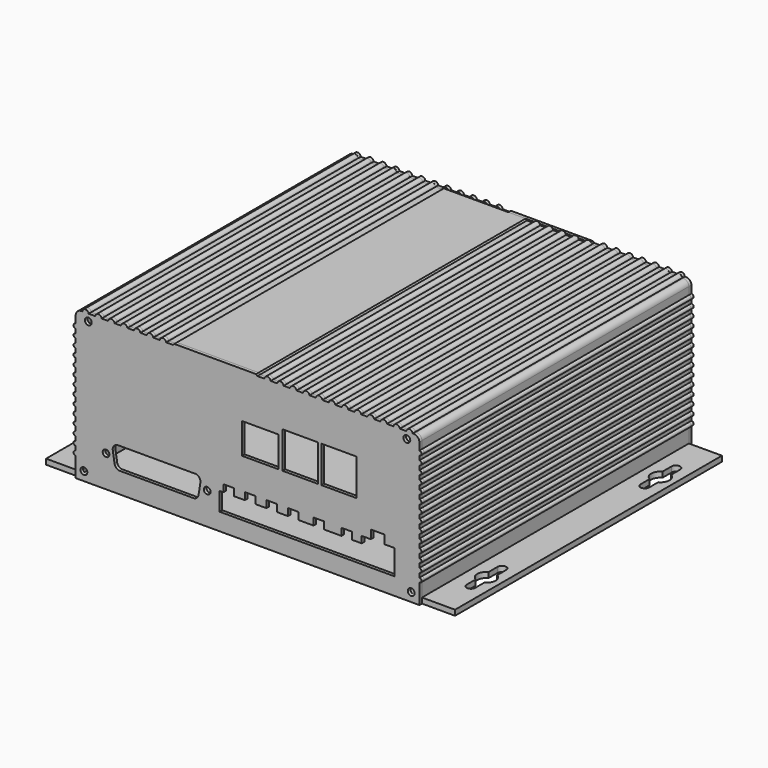
from build123d import *

# Parameters (mm, degrees)
FACE015_W                  = 154.7
FACE015_H                  = 64.8
EXTRUDE015_DEPTH           = 155.5
EXTRUDE002_DEPTH           = 3
EXTRUDE004_DEPTH           = 3
EXTRUDE003_DEPTH           = 3
EXTRUDE001_DEPTH           = 3
FACE_W                     = 155
FACE_H                     = 190
EXTRUDE_DEPTH              = 2.5
EXTRUDE005_DEPTH           = 155
EXTRUDE018_DEPTH           = 6.35
FACE020_W                  = 17
FACE020_H                  = 16.45
EXTRUDE019_DEPTH           = 6.35
FACE021_W                  = 17
FACE021_H                  = 16.45
EXTRUDE020_DEPTH           = 6.35
FACE022_W                  = 14.25
FACE022_H                  = 17.01
EXTRUDE021_DEPTH           = 6.35
EXTRUDE022_DEPTH           = 6.35
FACE027_R                  = 1.6
EXTRUDE023_DEPTH           = 6.35
FACE028_R                  = 1.6
EXTRUDE025_DEPTH           = 6.35
FACE026_R                  = 1.6
EXTRUDE026_DEPTH           = 6.35
FACE032_R                  = 1.6
EXTRUDE028_DEPTH           = 6.35
FACE031_R                  = 1.55
EXTRUDE029_DEPTH           = 6.35
FACE030_R                  = 1.55
EXTRUDE030_DEPTH           = 6.35
EXTRUDE016_DEPTH           = 1.5
CUT004_ROLL_ANGLE          = 90
WIRE009_W                  = 32.5
WIRE009_H                  = 80
EXTRUDE041_DEPTH           = 2
WIRE003_R                  = 1.6
EXTRUDE035_DEPTH           = 2
WIRE004_R                  = 1.6
EXTRUDE036_DEPTH           = 2
WIRE008_W                  = 19.4
WIRE008_H                  = 13
EXTRUDE040_DEPTH           = 2
WIRE001_R                  = 1.6
EXTRUDE033_DEPTH           = 2
WIRE002_R                  = 1.6
EXTRUDE034_DEPTH           = 2
WIRE007_R                  = 1.6
EXTRUDE039_DEPTH           = 2
WIRE005_R                  = 1.6
EXTRUDE037_DEPTH           = 2
WIRE006_R                  = 1.6
EXTRUDE038_DEPTH           = 2
WIRE_R                     = 1.6
EXTRUDE032_DEPTH           = 2
FUSION005_ROLL_ANGLE       = 90
FUSION005_PLACEMENT_ANGLE  = 180
EXTRUDE031_DEPTH           = 1.5
EXTRUDE031_ROLL_ANGLE      = 90
EXTRUDE031_PLACEMENT_ANGLE = 180


with BuildPart() as extrude015:
    # Face015 → Extrude015 (new body)
    with BuildSketch(Plane(origin=(94.8, 0, 34.9), x_dir=(-1, 0, 0), z_dir=(0, -1, 0))):
        Rectangle(FACE015_W, FACE015_H)
    extrude(amount=-EXTRUDE015_DEPTH)


with BuildPart() as extrude002:
    # Face002 → Extrude002 (new body)
    with BuildSketch(Plane(origin=(7, 128, 0), x_dir=(0, 1, 0), z_dir=(0, 0, 1))):
        with BuildLine():
            Line((-9, -2), (-3.75, -2))
            ThreePointArc((-3.75, -2), (-2.186607, -3.644345), (0, -4.25))
            ThreePointArc((0, -4.25), (2.186607, -3.644345), (3.75, -2))
            Line((3.75, -2), (9, -2))
            ThreePointArc((9, -2), (11, 0), (9, 2))
            Line((9, 2), (3.75, 2))
            ThreePointArc((3.75, 2), (0, 4.25), (-3.75, 2))
            Line((-3.75, 2), (-9, 2))
            ThreePointArc((-9, 2), (-11, 0), (-9, -2))
        make_face()
    extrude(amount=EXTRUDE002_DEPTH)


with BuildPart() as extrude004:
    # Face004 → Extrude004 (new body)
    with BuildSketch(Plane(origin=(183, 128, 0), x_dir=(0, 1, 0), z_dir=(0, 0, 1))):
        with BuildLine():
            Line((-9, -2), (-3.75, -2))
            ThreePointArc((-3.75, -2), (-2.186607, -3.644345), (0, -4.25))
            ThreePointArc((0, -4.25), (2.186607, -3.644345), (3.75, -2))
            Line((3.75, -2), (9, -2))
            ThreePointArc((9, -2), (11, 0), (9, 2))
            Line((9, 2), (3.75, 2))
            ThreePointArc((3.75, 2), (0, 4.25), (-3.75, 2))
            Line((-3.75, 2), (-9, 2))
            ThreePointArc((-9, 2), (-11, 0), (-9, -2))
        make_face()
    extrude(amount=EXTRUDE004_DEPTH)


with BuildPart() as extrude003:
    # Face003 → Extrude003 (new body)
    with BuildSketch(Plane(origin=(183, 27, 0), x_dir=(0, 1, 0), z_dir=(0, 0, 1))):
        with BuildLine():
            Line((-9, -2), (-3.75, -2))
            ThreePointArc((-3.75, -2), (-2.186607, -3.644345), (0, -4.25))
            ThreePointArc((0, -4.25), (2.186607, -3.644345), (3.75, -2))
            Line((3.75, -2), (9, -2))
            ThreePointArc((9, -2), (11, 0), (9, 2))
            Line((9, 2), (3.75, 2))
            ThreePointArc((3.75, 2), (0, 4.25), (-3.75, 2))
            Line((-3.75, 2), (-9, 2))
            ThreePointArc((-9, 2), (-11, 0), (-9, -2))
        make_face()
    extrude(amount=EXTRUDE003_DEPTH)


with BuildPart() as fusion:
    # Face001 → Extrude001 (new body)
    with BuildSketch(Plane(origin=(7, 27, 0), x_dir=(0, 1, 0), z_dir=(0, 0, 1))):
        with BuildLine():
            Line((-9, -2), (-3.75, -2))
            ThreePointArc((-3.75, -2), (-2.186607, -3.644345), (0, -4.25))
            ThreePointArc((0, -4.25), (2.186607, -3.644345), (3.75, -2))
            Line((3.75, -2), (9, -2))
            ThreePointArc((9, -2), (11, 0), (9, 2))
            Line((9, 2), (3.75, 2))
            ThreePointArc((3.75, 2), (0, 4.25), (-3.75, 2))
            Line((-3.75, 2), (-9, 2))
            ThreePointArc((-9, 2), (-11, 0), (-9, -2))
        make_face()
    extrude(amount=EXTRUDE001_DEPTH)

    # Fusion: union Extrude002, Extrude004, Extrude003
    add(extrude002.part)
    add(extrude004.part)
    add(extrude003.part)


with BuildPart() as cut:
    # Face → Extrude (new body)
    with BuildSketch(Plane(origin=(95, 77.5, 0), x_dir=(0, -1, 0), z_dir=(0, 0, -1))):
        Rectangle(FACE_W, FACE_H)
    extrude(amount=-EXTRUDE_DEPTH)

    # Cut: cut Fusion
    add(fusion.part, mode=Mode.SUBTRACT)


with BuildPart() as body:
    # Face005 → Extrude005 (new body)
    with BuildSketch(Plane(origin=(94.796781, 0, 34.844871), x_dir=(1, 0, 0), z_dir=(0, 1, 0))):
        with BuildLine():
            Line((79.853219, -31.855129), (79.853219, -28.351815))
            ThreePointArc((79.853219, -28.351815), (80.853219, -27.351815), (79.853219, -26.351815))
            Line((79.853219, -26.351815), (79.853219, -24.351815))
            ThreePointArc((79.853219, -24.351815), (80.853219, -23.351815), (79.853219, -22.351815))
            Line((79.853219, -22.351815), (79.853219, -20.351815))
            ThreePointArc((79.853219, -20.351815), (80.853219, -19.351815), (79.853219, -18.351815))
            Line((79.853219, -18.351815), (79.853219, -16.351815))
            ThreePointArc((79.853219, -16.351815), (80.853219, -15.351815), (79.853219, -14.351815))
            Line((79.853219, -14.351815), (79.853219, -12.351815))
            ThreePointArc((79.853219, -12.351815), (80.853219, -11.351815), (79.853219, -10.351815))
            Line((79.853219, -10.351815), (79.853219, -8.351815))
            ThreePointArc((79.853219, -8.351815), (80.853219, -7.351815), (79.853219, -6.351815))
            Line((79.853219, -6.351815), (79.853219, -4.351815))
            ThreePointArc((79.853219, -4.351815), (80.853219, -3.351815), (79.853219, -2.351815))
            Line((79.853219, -2.351815), (79.853219, -0.351815))
            ThreePointArc((79.853219, -0.351815), (80.853219, 0.648185), (79.853219, 1.648185))
            Line((79.853219, 1.648185), (79.853219, 3.648185))
            ThreePointArc((79.853219, 3.648185), (80.853219, 4.648185), (79.853219, 5.648185))
            Line((79.853219, 5.648185), (79.853219, 7.648185))
            ThreePointArc((79.853219, 7.648185), (80.853219, 8.648185), (79.853219, 9.648185))
            Line((79.853219, 9.648185), (79.853219, 11.648185))
            ThreePointArc((79.853219, 11.648185), (80.853219, 12.648185), (79.853219, 13.648185))
            Line((79.853219, 13.648185), (79.853219, 15.648185))
            ThreePointArc((79.853219, 15.648185), (80.853219, 16.648185), (79.853219, 17.648185))
            Line((79.853219, 17.648185), (79.853219, 19.648185))
            ThreePointArc((79.853219, 19.648185), (80.853219, 20.648185), (79.853219, 21.648185))
            Line((79.853219, 21.648185), (79.853219, 23.648185))
            ThreePointArc((79.853219, 23.648185), (80.853219, 24.648185), (79.853219, 25.648185))
            Line((79.853219, 25.648185), (79.853219, 34.844871))
            Line((79.853219, 34.844871), (-79.846781, 34.844871))
            Line((-79.846781, 34.844871), (-79.846781, 25.648185))
            ThreePointArc((-79.846781, 25.648185), (-80.846781, 24.648185), (-79.846781, 23.648185))
            Line((-79.846781, 23.648185), (-79.846781, 21.648185))
            ThreePointArc((-79.846781, 21.648185), (-80.846781, 20.648185), (-79.846781, 19.648185))
            Line((-79.846781, 19.648185), (-79.846781, 17.648185))
            ThreePointArc((-79.846781, 17.648185), (-80.846781, 16.648185), (-79.846781, 15.648185))
            Line((-79.846781, 15.648185), (-79.846781, 13.648185))
            ThreePointArc((-79.846781, 13.648185), (-80.846781, 12.648185), (-79.846781, 11.648185))
            Line((-79.846781, 11.648185), (-79.846781, 9.648185))
            ThreePointArc((-79.846781, 9.648185), (-80.846781, 8.648185), (-79.846781, 7.648185))
            Line((-79.846781, 7.648185), (-79.846781, 5.648185))
            ThreePointArc((-79.846781, 5.648185), (-80.846781, 4.648185), (-79.846781, 3.648185))
            Line((-79.846781, 3.648185), (-79.846781, 1.648185))
            ThreePointArc((-79.846781, 1.648185), (-80.846781, 0.648185), (-79.846781, -0.351815))
            Line((-79.846781, -0.351815), (-79.846781, -2.351815))
            ThreePointArc((-79.846781, -2.351815), (-80.846781, -3.351815), (-79.846781, -4.351815))
            Line((-79.846781, -4.351815), (-79.846781, -6.351815))
            ThreePointArc((-79.846781, -6.351815), (-80.846781, -7.351815), (-79.846781, -8.351815))
            Line((-79.846781, -8.351815), (-79.846781, -10.351815))
            ThreePointArc((-79.846781, -10.351815), (-80.846781, -11.351815), (-79.846781, -12.351815))
            Line((-79.846781, -12.351815), (-79.846781, -14.351815))
            ThreePointArc((-79.846781, -14.351815), (-80.846781, -15.351815), (-79.846781, -16.351815))
            Line((-79.846781, -16.351815), (-79.846781, -18.351815))
            ThreePointArc((-79.846781, -18.351815), (-80.846781, -19.351815), (-79.846781, -20.351815))
            Line((-79.846781, -20.351815), (-79.846781, -22.351815))
            ThreePointArc((-79.846781, -22.351815), (-80.846781, -23.351815), (-79.846781, -24.351815))
            Line((-79.846781, -24.351815), (-79.846781, -26.351815))
            ThreePointArc((-79.846781, -26.351815), (-80.846781, -27.351815), (-79.846781, -28.351815))
            Line((-79.846781, -28.351815), (-79.846781, -31.855129))
            ThreePointArc((-79.846781, -31.855129), (-79.030241, -33.607928), (-77.246781, -34.355129))
            Line((-77.246781, -34.355129), (-76.783388, -34.355129))
            ThreePointArc((-76.783388, -34.355129), (-75.296781, -35.655129), (-73.810174, -34.355129))
            Line((-73.810174, -34.355129), (-70.783388, -34.355129))
            ThreePointArc((-70.783388, -34.355129), (-69.296781, -35.655129), (-67.810174, -34.355129))
            Line((-67.810174, -34.355129), (-64.783388, -34.355129))
            ThreePointArc((-64.783388, -34.355129), (-63.296781, -35.655129), (-61.810174, -34.355129))
            Line((-61.810174, -34.355129), (-58.783388, -34.355129))
            ThreePointArc((-58.783388, -34.355129), (-57.296781, -35.655129), (-55.810174, -34.355129))
            Line((-55.810174, -34.355129), (-52.783388, -34.355129))
            ThreePointArc((-52.783388, -34.355129), (-51.296781, -35.655129), (-49.810174, -34.355129))
            Line((-49.810174, -34.355129), (-46.783388, -34.355129))
            ThreePointArc((-46.783388, -34.355129), (-45.296781, -35.655129), (-43.810174, -34.355129))
            Line((-43.810174, -34.355129), (-40.783388, -34.355129))
            ThreePointArc((-40.783388, -34.355129), (-39.296781, -35.655129), (-37.810174, -34.355129))
            Line((-37.810174, -34.355129), (-34.610174, -34.355129))
            Line((-34.610174, -34.355129), (-34.010174, -34.955129))
            Line((-34.010174, -34.955129), (3.989826, -34.955129))
            Line((3.989826, -34.955129), (4.589826, -34.355129))
            Line((4.589826, -34.355129), (7.789826, -34.355129))
            ThreePointArc((7.789826, -34.355129), (9.276433, -35.655129), (10.76304, -34.355129))
            Line((10.76304, -34.355129), (13.789826, -34.355129))
            ThreePointArc((13.789826, -34.355129), (15.276433, -35.655129), (16.76304, -34.355129))
            Line((16.76304, -34.355129), (19.789826, -34.355129))
            ThreePointArc((19.789826, -34.355129), (21.276433, -35.655129), (22.76304, -34.355129))
            Line((22.76304, -34.355129), (25.789826, -34.355129))
            ThreePointArc((25.789826, -34.355129), (27.276433, -35.655129), (28.76304, -34.355129))
            Line((28.76304, -34.355129), (31.789826, -34.355129))
            ThreePointArc((31.789826, -34.355129), (33.276433, -35.655129), (34.76304, -34.355129))
            Line((34.76304, -34.355129), (37.789826, -34.355129))
            ThreePointArc((37.789826, -34.355129), (39.276433, -35.655129), (40.76304, -34.355129))
            Line((40.76304, -34.355129), (43.789826, -34.355129))
            ThreePointArc((43.789826, -34.355129), (45.276433, -35.655129), (46.76304, -34.355129))
            Line((46.76304, -34.355129), (49.789826, -34.355129))
            ThreePointArc((49.789826, -34.355129), (51.276433, -35.655129), (52.76304, -34.355129))
            Line((52.76304, -34.355129), (55.789826, -34.355129))
            ThreePointArc((55.789826, -34.355129), (57.276433, -35.655129), (58.76304, -34.355129))
            Line((58.76304, -34.355129), (61.789826, -34.355129))
            ThreePointArc((61.789826, -34.355129), (63.276433, -35.655129), (64.76304, -34.355129))
            Line((64.76304, -34.355129), (67.789826, -34.355129))
            ThreePointArc((67.789826, -34.355129), (69.276433, -35.655129), (70.76304, -34.355129))
            Line((70.76304, -34.355129), (73.789826, -34.355129))
            ThreePointArc((73.789826, -34.355129), (75.276433, -35.655129), (76.76304, -34.355129))
            Line((76.76304, -34.355129), (77.253219, -34.355129))
            ThreePointArc((77.253219, -34.355129), (79.03668, -33.607928), (79.853219, -31.855129))
        make_face()
    extrude(amount=EXTRUDE005_DEPTH)

    # Fusion001: union Cut
    add(cut.part)

    # Cut003: cut Extrude015
    add(extrude015.part, mode=Mode.SUBTRACT)


with BuildPart() as extrude018:
    # Face019 → Extrude018 (new body)
    with BuildSketch(Plane(origin=(37.3896, 14.799301, 0), x_dir=(0, -1, 0), z_dir=(0, 0, -1))):
        with BuildLine():
            add(Edge.make_bspline(
                [(3.086614, 19.513819), (5.159401, 19.186537), (5.159401, 17.088071)],
                knots=[3.298195, 3.298195, 3.298195, 4.712389, 4.712389, 4.712389], degree=2, weights=[1, 0.760251, 1]))
            add(Edge.make_bspline(
                [(-2.221986, 20.352019), (3.086614, 19.513819)],
                knots=[0, 0, 5.374366, 5.374366], degree=1))
            add(Edge.make_bspline(
                [(-2.604999, 20.382071), (-2.412313, 20.382071), (-2.221986, 20.352019)],
                knots=[3.141593, 3.141593, 3.141593, 3.298195, 3.298195, 3.298195], degree=2, weights=[1, 0.996936, 1]))
            add(Edge.make_bspline(
                [(-5.060799, 17.926271), (-5.060799, 20.382071), (-2.604999, 20.382071)],
                knots=[1.570796, 1.570796, 1.570796, 3.141593, 3.141593, 3.141593], degree=2, weights=[1, 0.707107, 1]))
            add(Edge.make_bspline(
                [(-5.060799, -17.926271), (-5.060799, 17.926271)],
                knots=[0, 0, 35.852542, 35.852542], degree=1))
            add(Edge.make_bspline(
                [(-2.221986, -20.352019), (-5.060799, -20.800253), (-5.060799, -17.926271)],
                knots=[6.126583, 6.126583, 6.126583, 7.853982, 7.853982, 7.853982], degree=2, weights=[1, 0.64963, 1]))
            add(Edge.make_bspline(
                [(3.086614, -19.513819), (-2.221986, -20.352019)],
                knots=[0, 0, 5.374366, 5.374366], degree=1))
            add(Edge.make_bspline(
                [(5.159401, -17.088071), (5.159401, -19.186537), (3.086614, -19.513819)],
                knots=[4.712389, 4.712389, 4.712389, 6.126583, 6.126583, 6.126583], degree=2, weights=[1, 0.760251, 1]))
            add(Edge.make_bspline(
                [(5.159401, 17.088071), (5.159401, -17.088071)],
                knots=[0, 0, 34.176142, 34.176142], degree=1))
        make_face()
    extrude(amount=-EXTRUDE018_DEPTH)


with BuildPart() as extrude019:
    # Face020 → Extrude019 (new body)
    with BuildSketch(Plane(origin=(122.15, 42.75, 0), x_dir=(0, 1, 0), z_dir=(0, 0, 1))):
        Rectangle(FACE020_W, FACE020_H)
    extrude(amount=EXTRUDE019_DEPTH)


with BuildPart() as extrude020:
    # Face021 → Extrude020 (new body)
    with BuildSketch(Plane(origin=(104.15, 42.75, 0), x_dir=(0, 1, 0), z_dir=(0, 0, 1))):
        Rectangle(FACE021_W, FACE021_H)
    extrude(amount=EXTRUDE020_DEPTH)


with BuildPart() as extrude021:
    # Face022 → Extrude021 (new body)
    with BuildSketch(Plane(origin=(85.525, 41.375, 0), x_dir=(0, -1, 0), z_dir=(0, 0, -1))):
        Rectangle(FACE022_W, FACE022_H)
    extrude(amount=-EXTRUDE021_DEPTH)


with BuildPart() as extrude022:
    # Face023 → Extrude022 (new body)
    with BuildSketch(Plane(origin=(108.94447, 13.522136, 0), x_dir=(0, -1, 0), z_dir=(0, 0, -1))):
        Polygon((-6.327864, -19.23553), (-3.007864, -19.23553), (-3.007864, -23.75553), (-6.077864, -23.75553), (-6.077864, -27.95553), (-10.077864, -27.95553), (-10.077864, -34.35553), (-6.077864, -34.35553), (-6.077864, -39.05553), (5.522136, -39.05553), (5.522136, 42.26947), (-3.007864, 42.26947), (-3.007864, 40.52447), (-6.327864, 40.52447), (-6.327864, 35.66447), (-3.007864, 35.66447), (-3.007864, 30.52447), (-6.327864, 30.52447), (-6.327864, 25.66447), (-3.007864, 25.66447), (-3.007864, 20.52447), (-6.327864, 20.52447), (-6.327864, 15.66447), (-3.007864, 15.66447), (-3.007864, 10.52447), (-6.327864, 10.52447), (-6.327864, 5.66447), (-3.007864, 5.66447), (-3.007864, -1.37553), (-6.327864, -1.37553), (-6.327864, -6.23553), (-3.007864, -6.23553), (-3.007864, -14.37553), (-6.327864, -14.37553), align=None)
    extrude(amount=-EXTRUDE022_DEPTH)


with BuildPart() as extrude023:
    # Face027 → Extrude023 (new body)
    with BuildSketch(Plane(origin=(3.6, 4.1, 0), x_dir=(0, -1, 0), z_dir=(0, 0, -1))):
        Circle(FACE027_R)
    extrude(amount=-EXTRUDE023_DEPTH)


with BuildPart() as extrude025:
    # Face028 → Extrude025 (new body)
    with BuildSketch(Plane(origin=(155.7, 4.1, 0), x_dir=(0, -1, 0), z_dir=(0, 0, -1))):
        Circle(FACE028_R)
    extrude(amount=-EXTRUDE025_DEPTH)


with BuildPart() as extrude026:
    # Face026 → Extrude026 (new body)
    with BuildSketch(Plane(origin=(153.65, 66, 0), x_dir=(0, -1, 0), z_dir=(0, 0, -1))):
        Circle(FACE026_R)
    extrude(amount=-EXTRUDE026_DEPTH)


with BuildPart() as extrude028:
    # Face032 → Extrude028 (new body)
    with BuildSketch(Plane(origin=(5.65, 66, 0), x_dir=(0, -1, 0), z_dir=(0, 0, -1))):
        Circle(FACE032_R)
    extrude(amount=-EXTRUDE028_DEPTH)


with BuildPart() as extrude029:
    # Face031 → Extrude029 (new body)
    with BuildSketch(Plane(origin=(13.91, 14.75, 0), x_dir=(0, -1, 0), z_dir=(0, 0, -1))):
        Circle(FACE031_R)
    extrude(amount=-EXTRUDE029_DEPTH)


with BuildPart() as fusion004:
    # Face030 → Extrude030 (new body)
    with BuildSketch(Plane(origin=(60.91, 14.75, 0), x_dir=(0, -1, 0), z_dir=(0, 0, -1))):
        Circle(FACE030_R)
    extrude(amount=-EXTRUDE030_DEPTH)

    # Fusion004: union Extrude018, Extrude019, Extrude020, Extrude021, Extrude022, Extrude023, Extrude025, Extrude026, Extrude028, Extrude029
    add(extrude018.part)
    add(extrude019.part)
    add(extrude020.part)
    add(extrude021.part)
    add(extrude022.part)
    add(extrude023.part)
    add(extrude025.part)
    add(extrude026.part)
    add(extrude028.part)
    add(extrude029.part)


with BuildPart() as back:
    # Face016 → Extrude016 (new body)
    with BuildSketch(Plane(origin=(79.646781, 34.844871, 0), x_dir=(0, -1, 0), z_dir=(0, 0, -1))):
        with BuildLine():
            Line((-31.855129, -79.853219), (-28.351815, -79.853219))
            ThreePointArc((-28.351815, -79.853219), (-27.351815, -80.853219), (-26.351815, -79.853219))
            Line((-26.351815, -79.853219), (-24.351815, -79.853219))
            ThreePointArc((-24.351815, -79.853219), (-23.351815, -80.853219), (-22.351815, -79.853219))
            Line((-22.351815, -79.853219), (-20.351815, -79.853219))
            ThreePointArc((-20.351815, -79.853219), (-19.351815, -80.853219), (-18.351815, -79.853219))
            Line((-18.351815, -79.853219), (-16.351815, -79.853219))
            ThreePointArc((-16.351815, -79.853219), (-15.351815, -80.853219), (-14.351815, -79.853219))
            Line((-14.351815, -79.853219), (-12.351815, -79.853219))
            ThreePointArc((-12.351815, -79.853219), (-11.351815, -80.853219), (-10.351815, -79.853219))
            Line((-10.351815, -79.853219), (-8.351815, -79.853219))
            ThreePointArc((-8.351815, -79.853219), (-7.351815, -80.853219), (-6.351815, -79.853219))
            Line((-6.351815, -79.853219), (-4.351815, -79.853219))
            ThreePointArc((-4.351815, -79.853219), (-3.351815, -80.853219), (-2.351815, -79.853219))
            Line((-2.351815, -79.853219), (-0.351815, -79.853219))
            ThreePointArc((-0.351815, -79.853219), (0.648185, -80.853219), (1.648185, -79.853219))
            Line((1.648185, -79.853219), (3.648185, -79.853219))
            ThreePointArc((3.648185, -79.853219), (4.648185, -80.853219), (5.648185, -79.853219))
            Line((5.648185, -79.853219), (7.648185, -79.853219))
            ThreePointArc((7.648185, -79.853219), (8.648185, -80.853219), (9.648185, -79.853219))
            Line((9.648185, -79.853219), (11.648185, -79.853219))
            ThreePointArc((11.648185, -79.853219), (12.648185, -80.853219), (13.648185, -79.853219))
            Line((13.648185, -79.853219), (15.648185, -79.853219))
            ThreePointArc((15.648185, -79.853219), (16.648185, -80.853219), (17.648185, -79.853219))
            Line((17.648185, -79.853219), (19.648185, -79.853219))
            ThreePointArc((19.648185, -79.853219), (20.648185, -80.853219), (21.648185, -79.853219))
            Line((21.648185, -79.853219), (23.648185, -79.853219))
            ThreePointArc((23.648185, -79.853219), (24.648185, -80.853219), (25.648185, -79.853219))
            Line((25.648185, -79.853219), (34.844871, -79.853219))
            Line((34.844871, -79.853219), (34.844871, 79.846781))
            Line((34.844871, 79.846781), (25.648185, 79.846781))
            ThreePointArc((25.648185, 79.846781), (24.648185, 80.846781), (23.648185, 79.846781))
            Line((23.648185, 79.846781), (21.648185, 79.846781))
            ThreePointArc((21.648185, 79.846781), (20.648185, 80.846781), (19.648185, 79.846781))
            Line((19.648185, 79.846781), (17.648185, 79.846781))
            ThreePointArc((17.648185, 79.846781), (16.648185, 80.846781), (15.648185, 79.846781))
            Line((15.648185, 79.846781), (13.648185, 79.846781))
            ThreePointArc((13.648185, 79.846781), (12.648185, 80.846781), (11.648185, 79.846781))
            Line((11.648185, 79.846781), (9.648185, 79.846781))
            ThreePointArc((9.648185, 79.846781), (8.648185, 80.846781), (7.648185, 79.846781))
            Line((7.648185, 79.846781), (5.648185, 79.846781))
            ThreePointArc((5.648185, 79.846781), (4.648185, 80.846781), (3.648185, 79.846781))
            Line((3.648185, 79.846781), (1.648185, 79.846781))
            ThreePointArc((1.648185, 79.846781), (0.648185, 80.846781), (-0.351815, 79.846781))
            Line((-0.351815, 79.846781), (-2.351815, 79.846781))
            ThreePointArc((-2.351815, 79.846781), (-3.351815, 80.846781), (-4.351815, 79.846781))
            Line((-4.351815, 79.846781), (-6.351815, 79.846781))
            ThreePointArc((-6.351815, 79.846781), (-7.351815, 80.846781), (-8.351815, 79.846781))
            Line((-8.351815, 79.846781), (-10.351815, 79.846781))
            ThreePointArc((-10.351815, 79.846781), (-11.351815, 80.846781), (-12.351815, 79.846781))
            Line((-12.351815, 79.846781), (-14.351815, 79.846781))
            ThreePointArc((-14.351815, 79.846781), (-15.351815, 80.846781), (-16.351815, 79.846781))
            Line((-16.351815, 79.846781), (-18.351815, 79.846781))
            ThreePointArc((-18.351815, 79.846781), (-19.351815, 80.846781), (-20.351815, 79.846781))
            Line((-20.351815, 79.846781), (-22.351815, 79.846781))
            ThreePointArc((-22.351815, 79.846781), (-23.351815, 80.846781), (-24.351815, 79.846781))
            Line((-24.351815, 79.846781), (-26.351815, 79.846781))
            ThreePointArc((-26.351815, 79.846781), (-27.351815, 80.846781), (-28.351815, 79.846781))
            Line((-28.351815, 79.846781), (-31.855129, 79.846781))
            ThreePointArc((-31.855129, 79.846781), (-33.607928, 79.030241), (-34.355129, 77.246781))
            Line((-34.355129, 77.246781), (-34.355129, 76.783388))
            ThreePointArc((-34.355129, 76.783388), (-35.655129, 75.296781), (-34.355129, 73.810174))
            Line((-34.355129, 73.810174), (-34.355129, 70.783388))
            ThreePointArc((-34.355129, 70.783388), (-35.655129, 69.296781), (-34.355129, 67.810174))
            Line((-34.355129, 67.810174), (-34.355129, 64.783388))
            ThreePointArc((-34.355129, 64.783388), (-35.655129, 63.296781), (-34.355129, 61.810174))
            Line((-34.355129, 61.810174), (-34.355129, 58.783388))
            ThreePointArc((-34.355129, 58.783388), (-35.655129, 57.296781), (-34.355129, 55.810174))
            Line((-34.355129, 55.810174), (-34.355129, 52.783388))
            ThreePointArc((-34.355129, 52.783388), (-35.655129, 51.296781), (-34.355129, 49.810174))
            Line((-34.355129, 49.810174), (-34.355129, 46.783388))
            ThreePointArc((-34.355129, 46.783388), (-35.655129, 45.296781), (-34.355129, 43.810174))
            Line((-34.355129, 43.810174), (-34.355129, 40.783388))
            ThreePointArc((-34.355129, 40.783388), (-35.655129, 39.296781), (-34.355129, 37.810174))
            Line((-34.355129, 37.810174), (-34.355129, 34.610174))
            Line((-34.355129, 34.610174), (-34.955129, 34.010174))
            Line((-34.955129, 34.010174), (-34.955129, -3.989826))
            Line((-34.955129, -3.989826), (-34.355129, -4.589826))
            Line((-34.355129, -4.589826), (-34.355129, -7.789826))
            ThreePointArc((-34.355129, -7.789826), (-35.655129, -9.276433), (-34.355129, -10.76304))
            Line((-34.355129, -10.76304), (-34.355129, -13.789826))
            ThreePointArc((-34.355129, -13.789826), (-35.655129, -15.276433), (-34.355129, -16.76304))
            Line((-34.355129, -16.76304), (-34.355129, -19.789826))
            ThreePointArc((-34.355129, -19.789826), (-35.655129, -21.276433), (-34.355129, -22.76304))
            Line((-34.355129, -22.76304), (-34.355129, -25.789826))
            ThreePointArc((-34.355129, -25.789826), (-35.655129, -27.276433), (-34.355129, -28.76304))
            Line((-34.355129, -28.76304), (-34.355129, -31.789826))
            ThreePointArc((-34.355129, -31.789826), (-35.655129, -33.276433), (-34.355129, -34.76304))
            Line((-34.355129, -34.76304), (-34.355129, -37.789826))
            ThreePointArc((-34.355129, -37.789826), (-35.655129, -39.276433), (-34.355129, -40.76304))
            Line((-34.355129, -40.76304), (-34.355129, -43.789826))
            ThreePointArc((-34.355129, -43.789826), (-35.655129, -45.276433), (-34.355129, -46.76304))
            Line((-34.355129, -46.76304), (-34.355129, -49.789826))
            ThreePointArc((-34.355129, -49.789826), (-35.655129, -51.276433), (-34.355129, -52.76304))
            Line((-34.355129, -52.76304), (-34.355129, -55.789826))
            ThreePointArc((-34.355129, -55.789826), (-35.655129, -57.276433), (-34.355129, -58.76304))
            Line((-34.355129, -58.76304), (-34.355129, -61.789826))
            ThreePointArc((-34.355129, -61.789826), (-35.655129, -63.276433), (-34.355129, -64.76304))
            Line((-34.355129, -64.76304), (-34.355129, -67.789826))
            ThreePointArc((-34.355129, -67.789826), (-35.655129, -69.276433), (-34.355129, -70.76304))
            Line((-34.355129, -70.76304), (-34.355129, -73.789826))
            ThreePointArc((-34.355129, -73.789826), (-35.655129, -75.276433), (-34.355129, -76.76304))
            Line((-34.355129, -76.76304), (-34.355129, -77.253219))
            ThreePointArc((-34.355129, -77.253219), (-33.607928, -79.03668), (-31.855129, -79.853219))
        make_face()
    extrude(amount=-EXTRUDE016_DEPTH)

    # Cut004: cut Fusion004
    add(fusion004.part, mode=Mode.SUBTRACT)


with BuildPart() as back_1:
    # Cut004 roll: moved
    add(back.part.rotate(Axis((0, 0, 0), (1, 0, 0)), CUT004_ROLL_ANGLE))


with BuildPart() as back_2:
    # Cut004 placement: moved
    add(back_1.part.moved(Location((15.15, 0, 0))))


with BuildPart() as extrude041:
    # Wire009 → Extrude041 (new body)
    with BuildSketch(Plane(origin=(98.5, 32.25, 0), x_dir=(0, -1, 0), z_dir=(0, 0, -1))):
        Rectangle(WIRE009_W, WIRE009_H)
    extrude(amount=-EXTRUDE041_DEPTH)


with BuildPart() as extrude035:
    # Wire003 → Extrude035 (new body)
    with BuildSketch(Plane(origin=(155.7, 4.1, 0), x_dir=(0, -1, 0), z_dir=(0, 0, -1))):
        Circle(WIRE003_R)
    extrude(amount=-EXTRUDE035_DEPTH)


with BuildPart() as extrude036:
    # Wire004 → Extrude036 (new body)
    with BuildSketch(Plane(origin=(145, 60, 0), x_dir=(0, -1, 0), z_dir=(0, 0, -1))):
        Circle(WIRE004_R)
    extrude(amount=-EXTRUDE036_DEPTH)


with BuildPart() as extrude040:
    # Wire008 → Extrude040 (new body)
    with BuildSketch(Plane(origin=(16.5, 32.25, 0), x_dir=(0, -1, 0), z_dir=(0, 0, -1))):
        Rectangle(WIRE008_W, WIRE008_H)
    extrude(amount=-EXTRUDE040_DEPTH)


with BuildPart() as extrude033:
    # Wire001 → Extrude033 (new body)
    with BuildSketch(Plane(origin=(5.645922, 65.965261, 0), x_dir=(0, -1, 0), z_dir=(0, 0, -1))):
        Circle(WIRE001_R)
    extrude(amount=-EXTRUDE033_DEPTH)


with BuildPart() as extrude034:
    # Wire002 → Extrude034 (new body)
    with BuildSketch(Plane(origin=(153.65, 66, 0), x_dir=(0, -1, 0), z_dir=(0, 0, -1))):
        Circle(WIRE002_R)
    extrude(amount=-EXTRUDE034_DEPTH)


with BuildPart() as extrude039:
    # Wire007 → Extrude039 (new body)
    with BuildSketch(Plane(origin=(52, 60, 0), x_dir=(0, -1, 0), z_dir=(0, 0, -1))):
        Circle(WIRE007_R)
    extrude(amount=-EXTRUDE039_DEPTH)


with BuildPart() as extrude037:
    # Wire005 → Extrude037 (new body)
    with BuildSketch(Plane(origin=(145, 5, 0), x_dir=(0, -1, 0), z_dir=(0, 0, -1))):
        Circle(WIRE005_R)
    extrude(amount=-EXTRUDE037_DEPTH)


with BuildPart() as extrude038:
    # Wire006 → Extrude038 (new body)
    with BuildSketch(Plane(origin=(52, 5, 0), x_dir=(0, -1, 0), z_dir=(0, 0, -1))):
        Circle(WIRE006_R)
    extrude(amount=-EXTRUDE038_DEPTH)


with BuildPart() as fusion005:
    # Wire → Extrude032 (new body)
    with BuildSketch(Plane(origin=(3.6, 4.1, 0), x_dir=(0, -1, 0), z_dir=(0, 0, -1))):
        Circle(WIRE_R)
    extrude(amount=-EXTRUDE032_DEPTH)

    # Fusion005: union Extrude041, Extrude035, Extrude036, Extrude040, Extrude033, Extrude034, Extrude039, Extrude037, Extrude038
    add(extrude041.part)
    add(extrude035.part)
    add(extrude036.part)
    add(extrude040.part)
    add(extrude033.part)
    add(extrude034.part)
    add(extrude039.part)
    add(extrude037.part)
    add(extrude038.part)


with BuildPart() as fusion005_1:
    # Fusion005 roll: moved
    add(fusion005.part.rotate(Axis((0, 0, 0), (1, 0, 0)), FUSION005_ROLL_ANGLE))


with BuildPart() as fusion005_2:
    # Fusion005 placement: moved
    add(fusion005_1.part.rotate(Axis((0, 0, 0), (0, 0, 1)), FUSION005_PLACEMENT_ANGLE))


with BuildPart() as front:
    # Wire010 → Extrude031 (new body)
    with BuildSketch(Plane(origin=(79.65, 35.25, 0), x_dir=(0, -1, 0), z_dir=(0, 0, -1))):
        with BuildLine():
            Line((-31.45, -79.85), (-27.946685, -79.85))
            ThreePointArc((-27.946685, -79.85), (-26.946685, -80.85), (-25.946685, -79.85))
            Line((-25.946685, -79.85), (-23.946685, -79.85))
            ThreePointArc((-23.946685, -79.85), (-22.946685, -80.85), (-21.946685, -79.85))
            Line((-21.946685, -79.85), (-19.946685, -79.85))
            ThreePointArc((-19.946685, -79.85), (-18.946685, -80.85), (-17.946685, -79.85))
            Line((-17.946685, -79.85), (-15.946685, -79.85))
            ThreePointArc((-15.946685, -79.85), (-14.946685, -80.85), (-13.946685, -79.85))
            Line((-13.946685, -79.85), (-11.946685, -79.85))
            ThreePointArc((-11.946685, -79.85), (-10.946685, -80.85), (-9.946685, -79.85))
            Line((-9.946685, -79.85), (-7.946685, -79.85))
            ThreePointArc((-7.946685, -79.85), (-6.946685, -80.85), (-5.946685, -79.85))
            Line((-5.946685, -79.85), (-3.946685, -79.85))
            ThreePointArc((-3.946685, -79.85), (-2.946685, -80.85), (-1.946685, -79.85))
            Line((-1.946685, -79.85), (0.053315, -79.85))
            ThreePointArc((0.053315, -79.85), (1.053315, -80.85), (2.053315, -79.85))
            Line((2.053315, -79.85), (4.053315, -79.85))
            ThreePointArc((4.053315, -79.85), (5.053315, -80.85), (6.053315, -79.85))
            Line((6.053315, -79.85), (8.053315, -79.85))
            ThreePointArc((8.053315, -79.85), (9.053315, -80.85), (10.053315, -79.85))
            Line((10.053315, -79.85), (12.053315, -79.85))
            ThreePointArc((12.053315, -79.85), (13.053315, -80.85), (14.053315, -79.85))
            Line((14.053315, -79.85), (16.053315, -79.85))
            ThreePointArc((16.053315, -79.85), (17.053315, -80.85), (18.053315, -79.85))
            Line((18.053315, -79.85), (20.053315, -79.85))
            ThreePointArc((20.053315, -79.85), (21.053315, -80.85), (22.053315, -79.85))
            Line((22.053315, -79.85), (24.053315, -79.85))
            ThreePointArc((24.053315, -79.85), (25.053315, -80.85), (26.053315, -79.85))
            Line((26.053315, -79.85), (35.25, -79.85))
            Line((35.25, -79.85), (35.25, 79.85))
            Line((35.25, 79.85), (26.053315, 79.85))
            ThreePointArc((26.053315, 79.85), (25.053315, 80.85), (24.053315, 79.85))
            Line((24.053315, 79.85), (22.053315, 79.85))
            ThreePointArc((22.053315, 79.85), (21.053315, 80.85), (20.053315, 79.85))
            Line((20.053315, 79.85), (18.053315, 79.85))
            ThreePointArc((18.053315, 79.85), (17.053315, 80.85), (16.053315, 79.85))
            Line((16.053315, 79.85), (14.053315, 79.85))
            ThreePointArc((14.053315, 79.85), (13.053315, 80.85), (12.053315, 79.85))
            Line((12.053315, 79.85), (10.053315, 79.85))
            ThreePointArc((10.053315, 79.85), (9.053315, 80.85), (8.053315, 79.85))
            Line((8.053315, 79.85), (6.053315, 79.85))
            ThreePointArc((6.053315, 79.85), (5.053315, 80.85), (4.053315, 79.85))
            Line((4.053315, 79.85), (2.053315, 79.85))
            ThreePointArc((2.053315, 79.85), (1.053315, 80.85), (0.053315, 79.85))
            Line((0.053315, 79.85), (-1.946685, 79.85))
            ThreePointArc((-1.946685, 79.85), (-2.946685, 80.85), (-3.946685, 79.85))
            Line((-3.946685, 79.85), (-5.946685, 79.85))
            ThreePointArc((-5.946685, 79.85), (-6.946685, 80.85), (-7.946685, 79.85))
            Line((-7.946685, 79.85), (-9.946685, 79.85))
            ThreePointArc((-9.946685, 79.85), (-10.946685, 80.85), (-11.946685, 79.85))
            Line((-11.946685, 79.85), (-13.946685, 79.85))
            ThreePointArc((-13.946685, 79.85), (-14.946685, 80.85), (-15.946685, 79.85))
            Line((-15.946685, 79.85), (-17.946685, 79.85))
            ThreePointArc((-17.946685, 79.85), (-18.946685, 80.85), (-19.946685, 79.85))
            Line((-19.946685, 79.85), (-21.946685, 79.85))
            ThreePointArc((-21.946685, 79.85), (-22.946685, 80.85), (-23.946685, 79.85))
            Line((-23.946685, 79.85), (-25.946685, 79.85))
            ThreePointArc((-25.946685, 79.85), (-26.946685, 80.85), (-27.946685, 79.85))
            Line((-27.946685, 79.85), (-31.45, 79.85))
            ThreePointArc((-31.45, 79.85), (-33.202799, 79.03346), (-33.95, 77.25))
            Line((-33.95, 77.25), (-33.95, 76.786607))
            ThreePointArc((-33.95, 76.786607), (-35.25, 75.3), (-33.95, 73.813393))
            Line((-33.95, 73.813393), (-33.95, 70.786607))
            ThreePointArc((-33.95, 70.786607), (-35.25, 69.3), (-33.95, 67.813393))
            Line((-33.95, 67.813393), (-33.95, 64.786607))
            ThreePointArc((-33.95, 64.786607), (-35.25, 63.3), (-33.95, 61.813393))
            Line((-33.95, 61.813393), (-33.95, 58.786607))
            ThreePointArc((-33.95, 58.786607), (-35.25, 57.3), (-33.95, 55.813393))
            Line((-33.95, 55.813393), (-33.95, 52.786607))
            ThreePointArc((-33.95, 52.786607), (-35.25, 51.3), (-33.95, 49.813393))
            Line((-33.95, 49.813393), (-33.95, 46.786607))
            ThreePointArc((-33.95, 46.786607), (-35.25, 45.3), (-33.95, 43.813393))
            Line((-33.95, 43.813393), (-33.95, 40.786607))
            ThreePointArc((-33.95, 40.786607), (-35.25, 39.3), (-33.95, 37.813393))
            Line((-33.95, 37.813393), (-33.95, 34.613393))
            Line((-33.95, 34.613393), (-34.55, 34.013393))
            Line((-34.55, 34.013393), (-34.55, -3.986607))
            Line((-34.55, -3.986607), (-33.95, -4.586607))
            Line((-33.95, -4.586607), (-33.95, -7.786607))
            ThreePointArc((-33.95, -7.786607), (-35.25, -9.273214), (-33.95, -10.759821))
            Line((-33.95, -10.759821), (-33.95, -13.786607))
            ThreePointArc((-33.95, -13.786607), (-35.25, -15.273214), (-33.95, -16.759821))
            Line((-33.95, -16.759821), (-33.95, -19.786607))
            ThreePointArc((-33.95, -19.786607), (-35.25, -21.273214), (-33.95, -22.759821))
            Line((-33.95, -22.759821), (-33.95, -25.786607))
            ThreePointArc((-33.95, -25.786607), (-35.25, -27.273214), (-33.95, -28.759821))
            Line((-33.95, -28.759821), (-33.95, -31.786607))
            ThreePointArc((-33.95, -31.786607), (-35.25, -33.273214), (-33.95, -34.759821))
            Line((-33.95, -34.759821), (-33.95, -37.786607))
            ThreePointArc((-33.95, -37.786607), (-35.25, -39.273214), (-33.95, -40.759821))
            Line((-33.95, -40.759821), (-33.95, -43.786607))
            ThreePointArc((-33.95, -43.786607), (-35.25, -45.273214), (-33.95, -46.759821))
            Line((-33.95, -46.759821), (-33.95, -49.786607))
            ThreePointArc((-33.95, -49.786607), (-35.25, -51.273214), (-33.95, -52.759821))
            Line((-33.95, -52.759821), (-33.95, -55.786607))
            ThreePointArc((-33.95, -55.786607), (-35.25, -57.273214), (-33.95, -58.759821))
            Line((-33.95, -58.759821), (-33.95, -61.786607))
            ThreePointArc((-33.95, -61.786607), (-35.25, -63.273214), (-33.95, -64.759821))
            Line((-33.95, -64.759821), (-33.95, -67.786607))
            ThreePointArc((-33.95, -67.786607), (-35.25, -69.273214), (-33.95, -70.759821))
            Line((-33.95, -70.759821), (-33.95, -73.786607))
            ThreePointArc((-33.95, -73.786607), (-35.25, -75.273214), (-33.95, -76.759821))
            Line((-33.95, -76.759821), (-33.95, -77.25))
            ThreePointArc((-33.95, -77.25), (-33.202799, -79.03346), (-31.45, -79.85))
        make_face()
    extrude(amount=-EXTRUDE031_DEPTH)


with BuildPart() as front_1:
    # Extrude031 roll: moved
    add(front.part.rotate(Axis((0, 0, 0), (1, 0, 0)), EXTRUDE031_ROLL_ANGLE))


with BuildPart() as front_2:
    # Extrude031 placement: moved
    add(front_1.part.rotate(Axis((0, 0, 0), (0, 0, 1)), EXTRUDE031_PLACEMENT_ANGLE))

    # Cut005: cut Fusion005
    add(fusion005_2.part, mode=Mode.SUBTRACT)


with BuildPart() as front_3:
    # Cut005 placement: moved
    add(front_2.part.moved(Location((174.45, 155, 0))))


solid = Compound([body.part, back_2.part, front_3.part])
